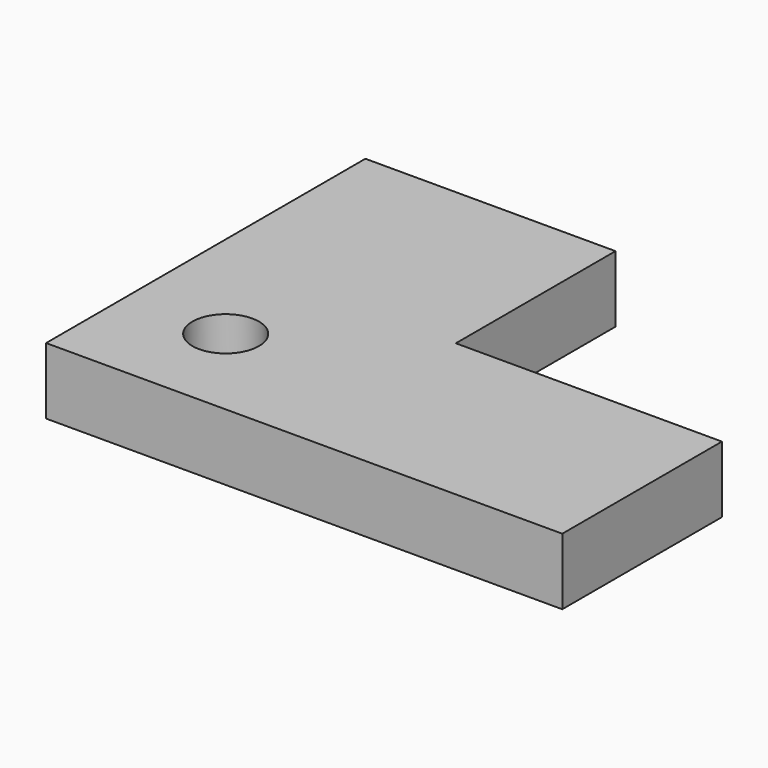
from build123d import *

# Parameters (mm, degrees)
F1_DEPTH = 100
F3_DEPTH = 220.98


with BuildPart() as f1:
    # F0 (on Top) → F1 (new body)
    with BuildSketch(Plane.XY):
        Polygon((168.996112, -300), (168.996112, 0), (-207.003888, 0), (-207.003888, -600), (568.996112, -600), (568.996112, -300), align=None)
    extrude(amount=F1_DEPTH)

    # F2 (on face) → F3 (cut)
    with BuildSketch(Plane.XY.offset(100)):
        with BuildLine():
            ThreePointArc((-7.003888, -450), (-92.359227, -414.644661), (-57.003888, -500))
            ThreePointArc((-57.003888, -500), (-21.648549, -485.355339), (-7.003888, -450))
        make_face()
    extrude(amount=-F3_DEPTH, mode=Mode.SUBTRACT)


solid = f1.part
